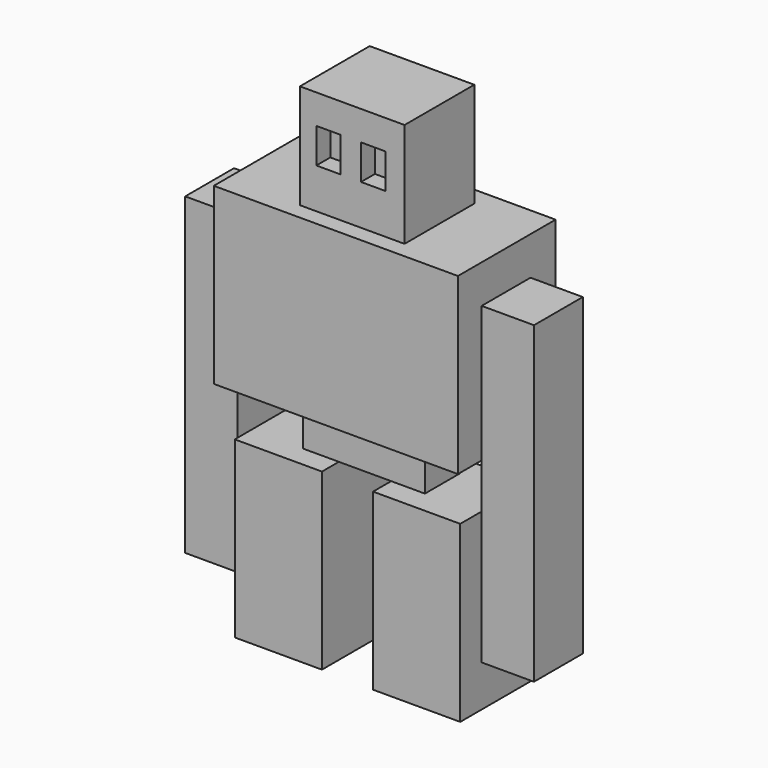
from build123d import *

# Parameters (mm, degrees)
F0_W      = 5
F0_H      = 5
F1_DEPTH  = 10
F2_W      = 2.065500658
F2_H      = 2.5
F2_W_2    = 4.934499342
F3_DEPTH  = 3
F4_W      = 14
F4_H      = 7
F4_W_2    = 7
F4_H_2    = 2.5
F5_DEPTH  = 10
F6_W      = 6
F6_H      = 5
F7_DEPTH  = 6
F8_W      = 1.4
F8_H      = 2
F9_DEPTH  = 1
F10_W     = 3.5
F10_H     = 7.8
F11_DEPTH = 3
F12_W     = 3.5
F12_H     = 10.2
F12_H_2   = 7.8
F13_DEPTH = 3


with BuildPart() as f1:
    # F0 (on Top) → F1 (new body)
    with BuildSketch(Plane.XY):
        with Locations((-14.5065793768, -4.4089912876)):
            Rectangle(F0_W, F0_H)
    extrude(amount=F1_DEPTH)


with BuildPart() as f1b:
    # F0 (on Top) → F1, piece 2 (new body)
    with BuildSketch(Plane.XY):
        with Locations((-6.5065793768, -4.4974009506)):
            Rectangle(F0_W, F0_H)
    extrude(amount=F1_DEPTH)


with BuildPart() as f3:
    # F2 (on face) → F3 (new body)
    with BuildSketch(Plane.XY.offset(10)):
        with Locations((-13.0393297058, -4.4468859397)):
            Rectangle(F2_W, F2_H)
        with Locations((-9.5393297058, -4.4468859397)):
            Rectangle(F2_W_2, F2_H)
    extrude(amount=F3_DEPTH)


with BuildPart() as f5:
    # F4 (on face) → F5 (new body)
    with BuildSketch(Plane.XY.offset(13)):
        with Locations((-10.500335617, -4.2941762283)):
            Rectangle(F4_W, F4_H)
        with Locations((-10.5720800348, -4.4468859397)):
            Rectangle(F4_W_2, F4_H_2, mode=Mode.SUBTRACT)
        with Locations((-10.5720800348, -4.4468859397)):
            Rectangle(F4_W_2, F4_H_2)
    extrude(amount=F5_DEPTH)

    # F6 (on face) → F7 (join)
    with BuildSketch(Plane.XY.offset(23)):
        with Locations((-10.3138480075, -4.354205858)):
            Rectangle(F6_W, F6_H)
    extrude(amount=F7_DEPTH)

    # F8 (on face) → F9 (cut)
    with BuildSketch(Plane.XZ.offset(6.854205858)):
        with Locations((-11.6725403297, 26.3112342762)):
            Rectangle(F8_W, F8_H)
        with Locations((-9.1112003411, 26.3112342762)):
            Rectangle(F8_W, F8_H)
    extrude(amount=-F9_DEPTH, mode=Mode.SUBTRACT)

    # F10 (on face) → F11 (join)
    with BuildSketch(Plane.YZ.offset(-3.500335617)):
        with Locations((-4.3441762283, 16.9)):
            Rectangle(F10_W, F10_H)
        Polygon((-2.5941762283, 13), (-6.0941762283, 13), (-6.0941762283, 2.8), (-2.5941762283, 2.8), (-2.5941762283, 3.5544625907), (-2.5941762283, 4.0402877186), align=None)
    extrude(amount=F11_DEPTH)

    # F12 (on face) → F13 (join)
    with BuildSketch(Plane(origin=(-17.500335617, 0, 0), x_dir=(0, -1, 0), z_dir=(-1, 0, 0))):
        with Locations((4.3441762283, 7.9)):
            Rectangle(F12_W, F12_H)
        with Locations((4.3441762283, 16.9)):
            Rectangle(F12_W, F12_H_2)
    extrude(amount=F13_DEPTH)


solid = Compound([f1.part, f1b.part, f3.part, f5.part])
